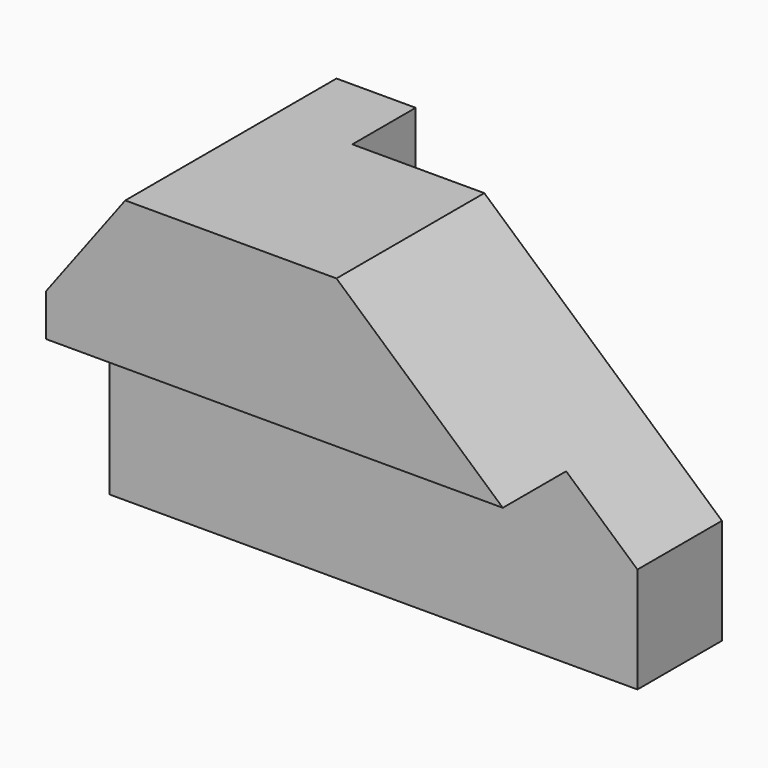
from build123d import *

# Parameters (mm, degrees)
F0_W     = 100
F0_H     = 50
F1_DEPTH = 60
F4_DEPTH = 50.001
F2_W     = 70
F2_H     = 15
F5_DEPTH = 60.001
F6_W     = 15
F6_H     = 32
F7_DEPTH = 100.001
F9_DEPTH = 50.001


with BuildPart() as f1:
    # F0 (on Top) → F1 (new body)
    with BuildSketch(Plane.XY):
        with Locations((50, 25)):
            Rectangle(F0_W, F0_H)
    extrude(amount=F1_DEPTH)

    # F3 (on face) → F4 (cut, through all)
    with BuildSketch(Plane.XZ):
        Polygon((55, 60), (100, 20), (100, 60), align=None)
    extrude(amount=-F4_DEPTH, mode=Mode.SUBTRACT)

    # F2 (on face) → F5 (cut, through all)
    with BuildSketch(Plane.XY.offset(60)):
        with Locations((65, 42.5)):
            Rectangle(F2_W, F2_H)
    extrude(amount=-F5_DEPTH, mode=Mode.SUBTRACT)

    # F6 (on face) → F7 (cut, through all)
    with BuildSketch(Plane.YZ.offset(100)):
        with Locations((7.5, 16)):
            Rectangle(F6_W, F6_H)
    extrude(amount=-F7_DEPTH, mode=Mode.SUBTRACT)

    # F8 (on face) → F9 (cut, through all)
    with BuildSketch(Plane.XZ):
        Polygon((0, 40), (15, 60), (0, 60), align=None)
    extrude(amount=-F9_DEPTH, mode=Mode.SUBTRACT)


solid = f1.part
